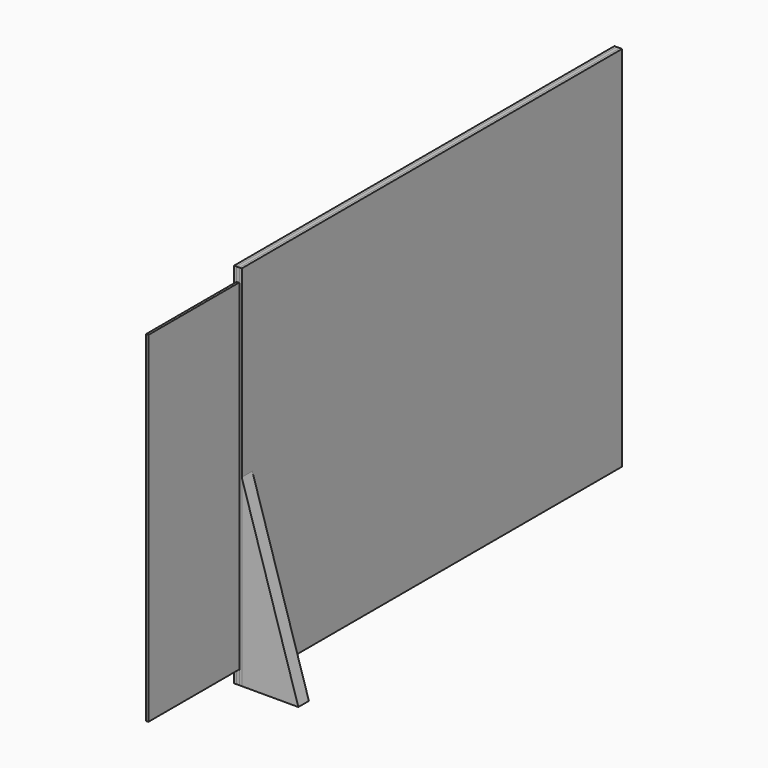
from build123d import *

# Parameters (mm, degrees)
F1_W      = 1280.598775
F1_H      = 990.6
F2_DEPTH  = 6.35
F3_W      = 1280.598775
F3_H      = 36.5125
F4_DEPTH  = 7.9375
F5_W      = 38.1
F5_H      = 917.575
F6_DEPTH  = 7.9375
F7_W      = 1549.4
F7_H      = 917.575
F8_DEPTH  = 6.35
F9_W      = 1280.598775
F9_H      = 990.6
F10_DEPTH = 6.35
F12_DEPTH = 35.56


with BuildPart() as f2:
    # F1 (on Right) → F2 (new body)
    with BuildSketch(Plane.YZ):
        with Locations((1859.499388, 495.3)):
            Rectangle(F1_W, F1_H)
    extrude(amount=F2_DEPTH)


with BuildPart() as f4:
    # F3 (on face) → F4 (new body)
    with BuildSketch(Plane.YZ.offset(6.35)):
        with Locations((1859.499388, 972.34375)):
            Rectangle(F3_W, F3_H)
        with Locations((1859.499388, 18.25625)):
            Rectangle(F3_W, F3_H)
    extrude(amount=F4_DEPTH)


with BuildPart() as f6:
    # F5 (on face) → F6 (new body, through all)
    with BuildSketch(Plane.YZ.offset(6.35)):
        with Locations((2482.85, 495.3)):
            Rectangle(F5_W, F5_H)
    extrude(amount=F6_DEPTH)


with BuildPart() as f8:
    # F7 (on face) → F8 (new body)
    with BuildSketch(Plane.YZ.offset(6.35)):
        with Locations((1689.1, 495.3)):
            Rectangle(F7_W, F7_H)
    extrude(amount=F8_DEPTH)


with BuildPart() as f10:
    # F9 (on face) → F10 (new body)
    with BuildSketch(Plane.YZ.offset(14.2875)):
        with Locations((1859.499388, 495.3)):
            Rectangle(F9_W, F9_H)
    extrude(amount=F10_DEPTH)


with BuildPart() as f12:
    # F11 (on face) → F12 (new body)
    with BuildSketch(Plane.XZ.offset(-1219.2)):
        Polygon((20.6375, 495.3), (20.6375, 0), (173.0375, 0), align=None)
    extrude(amount=-F12_DEPTH)


solid = Compound([f2.part, f4.part, f6.part, f8.part, f10.part, f12.part])
